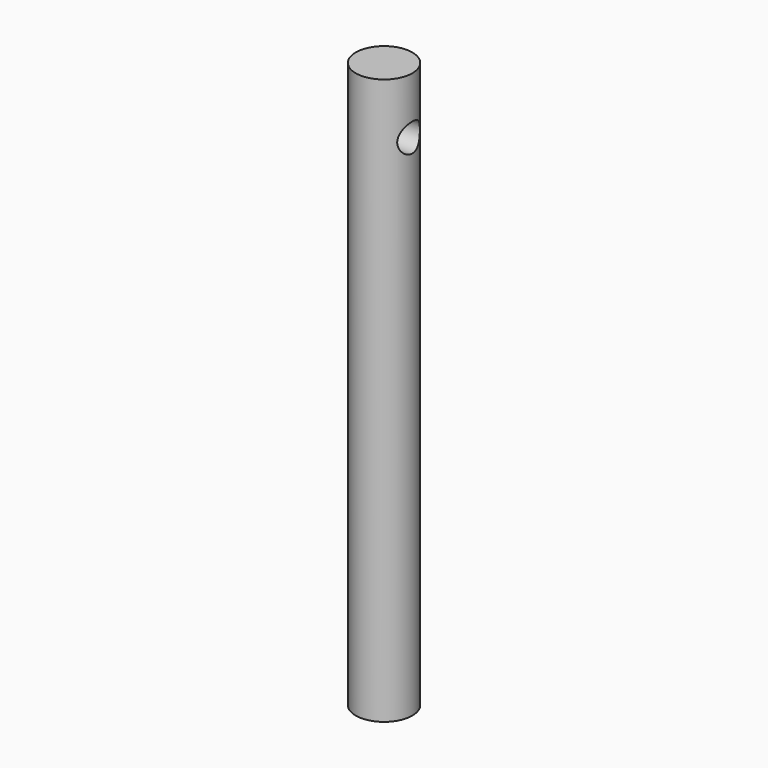
from build123d import *

# Parameters (mm, degrees)
F0_R     = 6.35
F1_DEPTH = 127
F2_R     = 3.175
F3_DEPTH = 12.7


with BuildPart() as f1:
    # F0 (on Top) → F1 (new body)
    with BuildSketch(Plane.XY):
        Circle(F0_R)
    extrude(amount=F1_DEPTH)

    # F2 (on Right) → F3 (cut, symmetric)
    with BuildSketch(Plane.YZ):
        with Locations((0, 114.3)):
            Circle(F2_R)
    extrude(amount=F3_DEPTH, both=True, mode=Mode.SUBTRACT)


solid = f1.part
